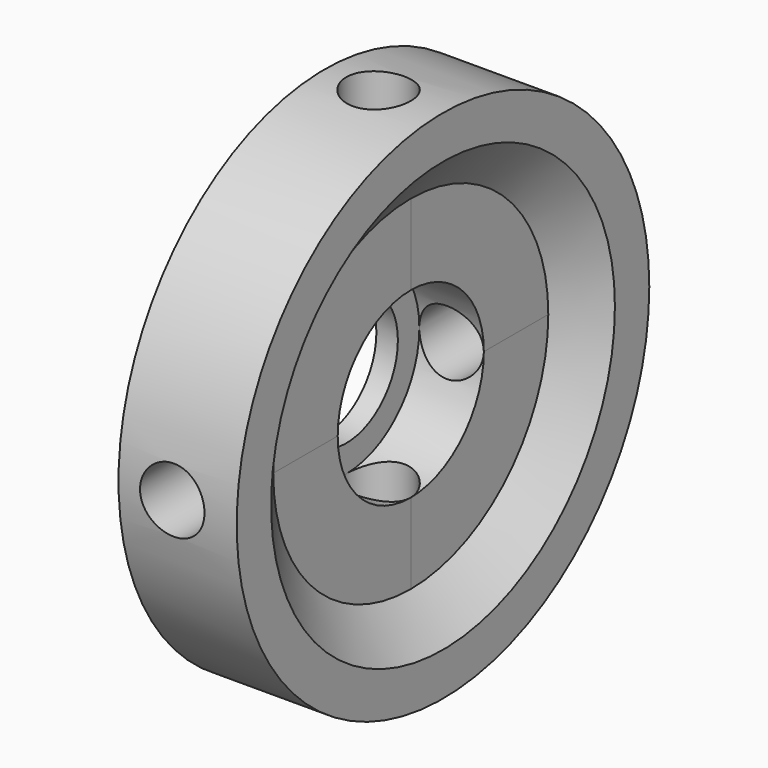
from build123d import *

# Parameters (mm, degrees)
SKETCH085_R  = 1.5
PAD064_DEPTH = 25
SKETCH082_R  = 1.5
PAD063_DEPTH = 25


with BuildPart() as pad064:
    # Sketch085 → Pad064 (new body, symmetric)
    with BuildSketch(Plane.XY):
        with Locations((-12.5, 0)):
            Circle(SKETCH085_R)
    extrude(amount=PAD064_DEPTH, both=True)


with BuildPart() as screwcutout:
    # Sketch082 → Pad063 (new body, symmetric)
    with BuildSketch(Plane.XZ):
        with Locations((-12.5, 0)):
            Circle(SKETCH082_R)
    extrude(amount=PAD063_DEPTH, both=True)

    # Fusion004024: union Pad064
    add(pad064.part)


with BuildPart() as endcap:
    # Sketch083 → Revolution (revolve)
    with BuildSketch(Plane.XY):
        Polygon((-15, 3), (-15, 12), (-9.5, 12), (-9.5, 10), (-11, 8), (-11, 4.25), (-14, 4.25), (-14, 3), align=None)
    revolve(axis=Axis((0, 0, 0), (1, 0, 0)))

    # Cut007019003: cut ScrewCutout
    add(screwcutout.part, mode=Mode.SUBTRACT)


solid = endcap.part
